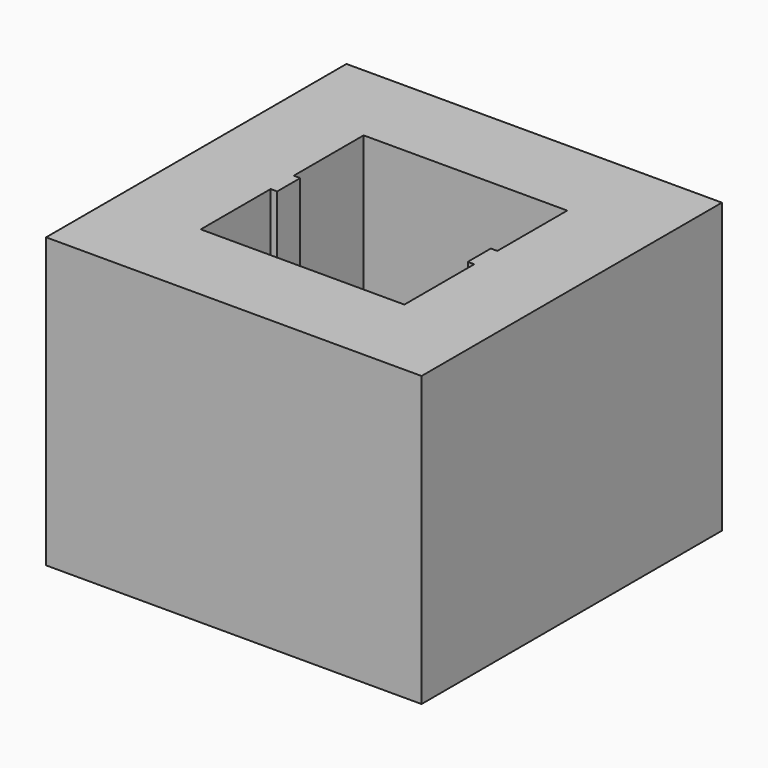
from build123d import *

# Parameters (mm, degrees)
F0_W     = 13
F0_H     = 13
F0_W_2   = 0.225
F0_H_2   = 1
F1_DEPTH = 10
F2_DEPTH = 0.4


with BuildPart() as f1:
    # F0 (on Top) → F1 (new body)
    with BuildSketch(Plane.XY):
        with Locations((-3.3, 3.3)):
            Rectangle(F0_W, F0_H)
        Polygon((-6.825, 2.8), (-6.825, 3.8), (-6.825, 6.825), (0.225, 6.825), (0.225, 3.8), (0.225, 2.8), (0.225, -0.225), (-6.825, -0.225), align=None, mode=Mode.SUBTRACT)
        with Locations((0.1125, 3.3)):
            Rectangle(F0_W_2, F0_H_2)
        with Locations((-6.7125, 3.3)):
            Rectangle(F0_W_2, F0_H_2)
    extrude(amount=F1_DEPTH)

    # F0 (on Top) → F2 (join)
    with BuildSketch(Plane.XY):
        Polygon((-6.6, 0), (-6.6, 2.8), (-6.825, 2.8), (-6.825, -0.225), (0.225, -0.225), (0.225, 2.8), (0, 2.8), (0, 0), align=None)
        Polygon((-6.6, 3.8), (-6.6, 6.6), (0, 6.6), (0, 3.8), (0.225, 3.8), (0.225, 6.825), (-6.825, 6.825), (-6.825, 3.8), align=None)
    extrude(amount=F2_DEPTH)


solid = f1.part
